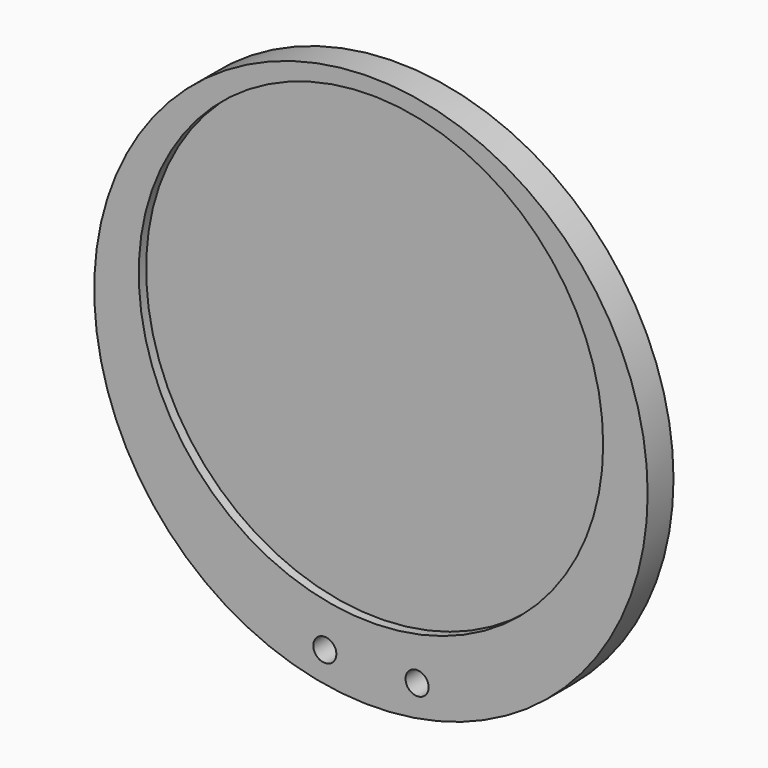
from build123d import *

# Parameters (mm, degrees)
F0_R     = 76.2
F1_DEPTH = 8.89
F2_R     = 63.9445
F3_DEPTH = 2.54
F5_D     = 6.35


with BuildPart() as f1:
    # F0 (on Front) → F1 (new body)
    with BuildSketch(Plane.XZ):
        Circle(F0_R)
    extrude(amount=F1_DEPTH)

    # F2 (on face) → F3 (cut)
    with BuildSketch(Plane.XZ.offset(8.89)):
        with Locations((0, 7.933864)):
            Circle(F2_R)
    extrude(amount=-F3_DEPTH, mode=Mode.SUBTRACT)

    # F5 (through all)
    with Locations(Plane.XZ.offset(8.89)):
        with Locations((-12.699133, -66.782228), (12.7, -66.572319)):
            Hole(F5_D / 2)


solid = f1.part
